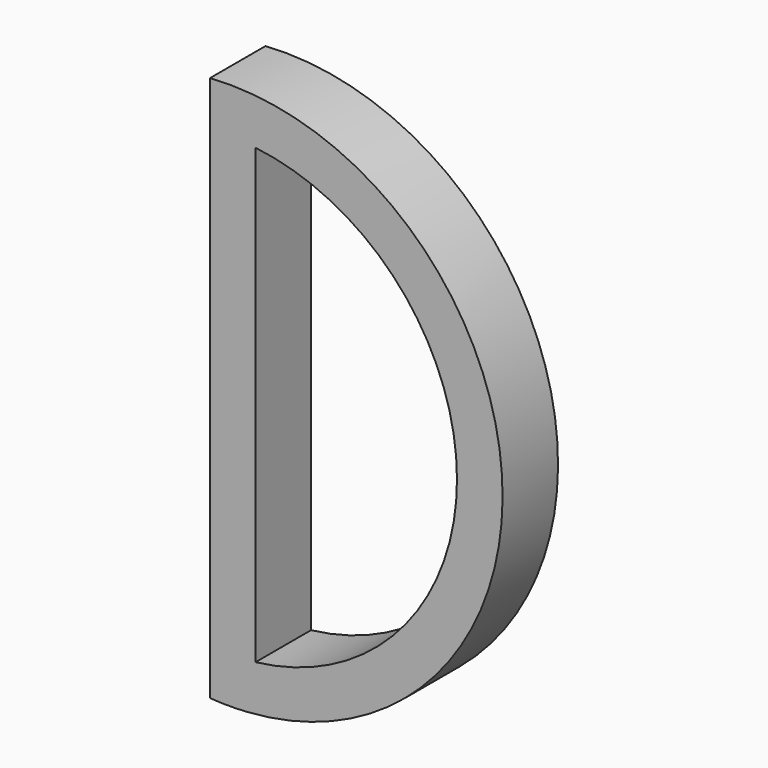
from build123d import *

# Parameters (mm, degrees)
F1_DEPTH = 3.8
F2_T     = -2.5


with BuildPart() as f1:
    # F0 (on Front) → F1 (new body)
    with BuildSketch(Plane.XZ):
        with BuildLine():
            ThreePointArc((2.086776, -14.200249), (8.493169, 1.282912), (0, 15.727157))
            Line((0, 15.727157), (0, -14.200249))
            ThreePointArc((0, -14.200249), (1.043388, -14.236581), (2.086776, -14.200249))
        make_face()
        with BuildLine():
            ThreePointArc((2.086776, -14.200249), (16.007091, 1.806842), (0, 15.727157))
            ThreePointArc((0, 15.727157), (8.493169, 1.282912), (2.086776, -14.200249))
        make_face()
    extrude(amount=-F1_DEPTH)

    # F2
    f2_openings = [f1.faces().sort_by_distance(p)[0] for p in [
        (6.849636, 0, 0.763454),
        (6.849636, 3.8, 0.763454),
    ]]
    offset(amount=F2_T, openings=f2_openings)


solid = f1.part
